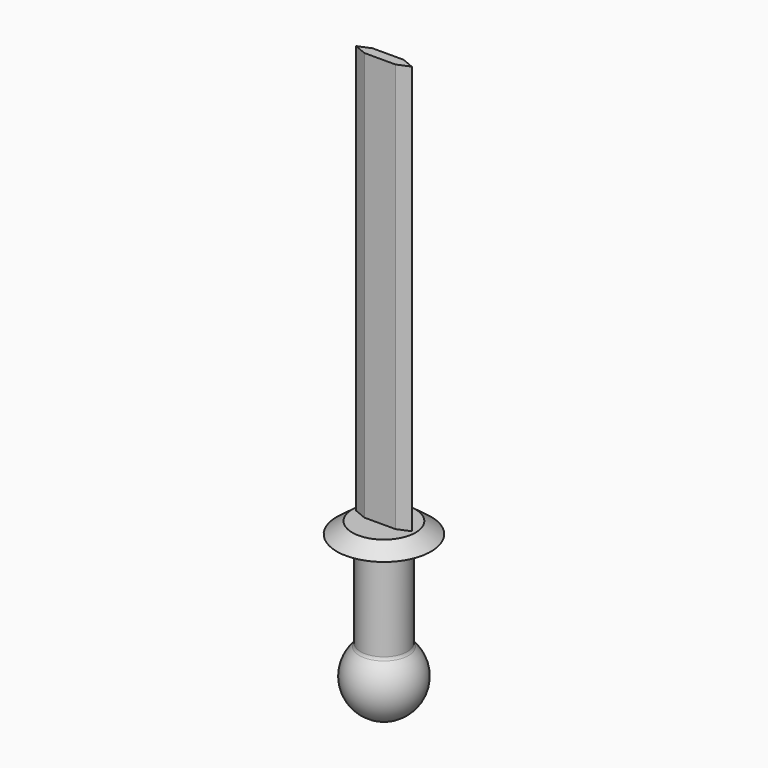
from build123d import *

# Parameters (mm, degrees)
F3_DEPTH = 508
F4_R     = 5.08


with BuildPart() as f1:
    # F0 (on Front) → F1 (revolve)
    with BuildSketch(Plane.XZ):
        with BuildLine():
            Line((-32.6849557459, 129.4918209314), (-22.4857572466, 129.4918209314))
            Line((-22.4857572466, 129.4918209314), (-22.4857572466, 8.1203018698))
            ThreePointArc((-22.4857572466, 8.1203018698), (-35.2097717712, -41.1345076384), (6.5492498688, -70.1882667236))
            Line((6.5492498688, -70.1882667236), (6.5492498688, -25.6512276828))
            Line((6.5492498688, -25.6512276828), (6.5492498688, 129.4918209314))
            Line((6.5492498688, 129.4918209314), (6.5492498688, 143.8984274864))
            Line((6.5492498688, 143.8984274864), (-32.6849557459, 143.8984274864))
            Line((-32.6849557459, 143.8984274864), (-51.9365184009, 129.4918209314))
            Line((-51.9365184009, 129.4918209314), (-32.6849557459, 129.4918209314))
        make_face()
    revolve(axis=Axis((6.5492498688, 0, 51.9202966243), (0, 0, -1)))

    # F2 (on face) → F3 (join)
    with BuildSketch(Plane.XY.offset(143.8984274864)):
        Polygon((-12.7665811263, -6.35), (-12.7665811263, 0), (-28.0065811263, 0), align=None)
        Polygon((-12.7665811263, 0), (-12.7665811263, 6.35), (-28.0065811263, 0), align=None)
        Polygon((41.105080864, 0), (25.865080864, 0), (25.865080864, -6.35), align=None)
        Polygon((41.105080864, 0), (25.865080864, 6.35), (25.865080864, 0), align=None)
        Polygon((25.865080864, 0), (25.865080864, 6.35), (-12.7665811263, 6.35), (-12.7665811263, 0), (-12.7665811263, -6.35), (25.865080864, -6.35), align=None)
    extrude(amount=F3_DEPTH)

    # F4
    f4_edges = [f1.edges().sort_by_distance(p)[0] for p in [
        (35.584257, 0, 129.491821),
        (35.584257, 0, 8.120302),
    ]]
    fillet(f4_edges, radius=F4_R)


solid = f1.part
